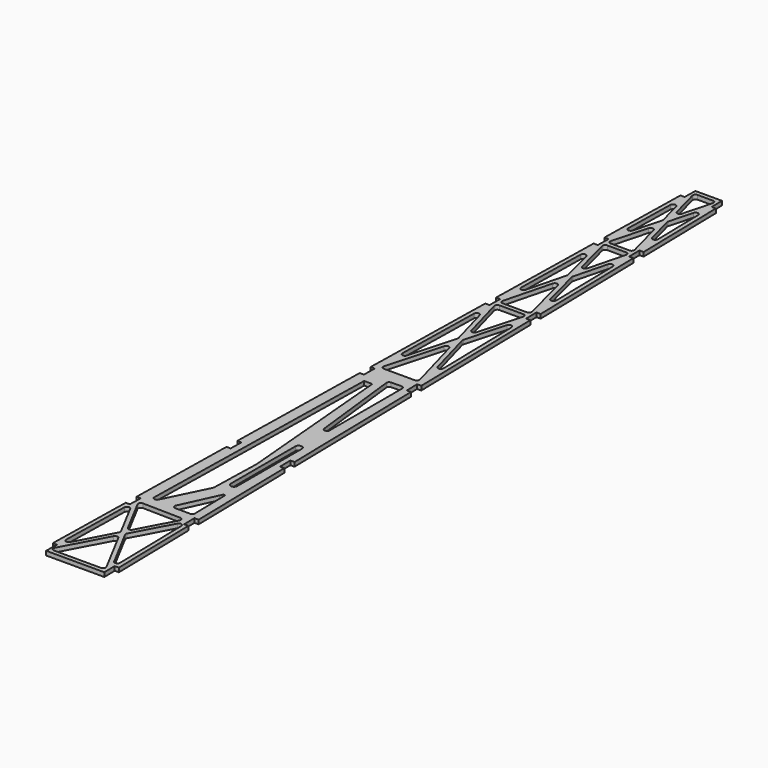
from build123d import *

# Parameters (mm, degrees)
F1_DEPTH = 3.175


with BuildPart() as f1:
    # F0 (on Top) → F1 (new body)
    with BuildSketch(Plane.XY):
        Polygon((6.444097, 283.508122), (-3.590998, 283.508122), (-13.626092, 283.508122), (-13.824096, 273.447582), (-16.998481, 273.510058), (-18.438634, 203.352104), (-15.264249, 203.289628), (-15.461023, 193.291564), (-18.635408, 193.35404), (-20.46911, 103.199958), (-17.301305, 103.137612), (-17.498079, 93.139548), (-20.672464, 93.202024), (-22.828078, -12.778931), (-19.660273, -12.841278), (-19.857047, -22.839342), (-23.031432, -22.776866), (-25.284472, -135.921766), (-22.110087, -135.984242), (-22.306861, -145.982305), (-25.481246, -145.91983), (-27.117884, -229.077143), (-23.943499, -229.139618), (-24.140273, -239.137682), (-27.314658, -239.075206), (-28.642359, -306.53547), (-25.467974, -306.597946), (-25.665481, -316.63324), (-4.710101, -316.63324), (18.483485, -316.63324), (18.285978, -306.597946), (21.460364, -306.53547), (20.132663, -239.075206), (16.958278, -239.137682), (16.761503, -229.139618), (19.935889, -229.077143), (18.299251, -145.91983), (15.124865, -145.982305), (14.928091, -135.984242), (18.102477, -135.921766), (15.849437, -22.776866), (12.675052, -22.839342), (12.478277, -12.841278), (15.646082, -12.778931), (13.490468, 93.202024), (10.316083, 93.139548), (10.119309, 103.137612), (13.287114, 103.199958), (11.453413, 193.35404), (8.279028, 193.291564), (8.082254, 203.289628), (11.256639, 203.352104), (9.816486, 273.510058), (6.642101, 273.447582), align=None)
        with BuildLine():
            Line((-25.301506, -298.139761), (-24.241335, -244.272637))
            ThreePointArc((-24.241335, -244.272637), (-22.70611, -242.366653), (-20.4755, -243.373664))
            Line((-20.4755, -243.373664), (-6.643158, -269.410404))
            ThreePointArc((-6.643158, -269.410404), (-6.409382, -270.351733), (-6.645982, -271.292356))
            Line((-6.645982, -271.292356), (-21.538495, -299.122741))
            ThreePointArc((-21.538495, -299.122741), (-23.807375, -300.114184), (-25.301506, -298.139761))
        make_face(mode=Mode.SUBTRACT)
        with BuildLine():
            Line((13.430559, -313.45824), (-22.264411, -313.45824))
            ThreePointArc((-22.264411, -313.45824), (-23.98011, -312.486041), (-24.027809, -310.514615))
            Line((-24.027809, -310.514615), (-6.115812, -277.04157))
            ThreePointArc((-6.115812, -277.04157), (-4.349412, -275.985197), (-2.586191, -277.046867))
            Line((-2.586191, -277.046867), (15.196782, -310.519912))
            ThreePointArc((15.196782, -310.519912), (15.144714, -312.488614), (13.430559, -313.45824))
        make_face(mode=Mode.SUBTRACT)
        with BuildLine():
            Line((-18.803989, -233.405354), (10.025356, -233.972751))
            ThreePointArc((10.025356, -233.972751), (11.71173, -234.961494), (11.749399, -236.915988))
            Line((11.749399, -236.915988), (-2.566114, -263.668103))
            ThreePointArc((-2.566114, -263.668103), (-4.332514, -264.724477), (-6.095735, -263.662806))
            Line((-6.095735, -263.662806), (-20.609566, -236.343295))
            ThreePointArc((-20.609566, -236.343295), (-20.547278, -234.357776), (-18.803989, -233.405354))
        make_face(mode=Mode.SUBTRACT)
        with BuildLine():
            Line((1.240514, -191.580951), (-14.695907, -223.962616))
            ThreePointArc((-14.695907, -223.962616), (-16.970181, -225.021077), (-18.489626, -223.025095))
            Line((-18.489626, -223.025095), (-14.633761, -29.013587))
            Line((-14.633761, -29.013587), (-8.414293, -29.18279))
            Line((-8.414293, -29.18279), (2.31197, -152.197001))
            Line((2.31197, -152.197001), (1.240514, -191.580951))
        make_face(mode=Mode.SUBTRACT)
        with BuildLine():
            Line((17.009734, -241.762103), (18.181389, -301.293701))
            ThreePointArc((18.181389, -301.293701), (16.684353, -303.26888), (14.415554, -302.271384))
            Line((14.415554, -302.271384), (-2.038768, -271.29927))
            ThreePointArc((-2.038768, -271.29927), (-2.272544, -270.357941), (-2.035944, -269.417318))
            Line((-2.035944, -269.417318), (13.246723, -240.857834))
            ThreePointArc((13.246723, -240.857834), (15.477427, -239.856818), (17.009734, -241.762103))
        make_face(mode=Mode.SUBTRACT)
        with BuildLine():
            Line((-1.879553, -223.475835), (10.222261, -197.098457))
            Line((10.222261, -197.098457), (11.159908, -195.182439))
            ThreePointArc((11.159908, -195.182439), (12.07296, -194.742526), (12.715259, -195.526517))
            Line((12.715259, -195.526517), (13.280975, -224.270484))
            ThreePointArc((13.280975, -224.270484), (12.709422, -225.710069), (11.281363, -226.309839))
            Line((11.281363, -226.309839), (-0.061741, -226.309839))
            ThreePointArc((-0.061741, -226.309839), (-1.745191, -225.389652), (-1.879553, -223.475835))
        make_face(mode=Mode.SUBTRACT)
        with BuildLine():
            Line((5.933236, -181.199968), (5.933236, -120.013282))
            ThreePointArc((5.933236, -120.013282), (8.433236, -117.513282), (10.933236, -120.013282))
            Line((10.933236, -120.013282), (10.933236, -181.199968))
            ThreePointArc((10.933236, -181.199968), (8.433236, -183.699968), (5.933236, -181.199968))
        make_face(mode=Mode.SUBTRACT)
        with BuildLine():
            Line((-0.884981, -20.674951), (6.986219, -20.514853))
            ThreePointArc((6.986219, -20.514853), (8.42665, -21.085919), (9.02689, -22.51444))
            Line((9.02689, -22.51444), (9.02689, -91.315092))
            ThreePointArc((9.02689, -91.315092), (7.141002, -93.311834), (5.039912, -91.542944))
            Line((5.039912, -91.542944), (-2.831289, -22.902389))
            ThreePointArc((-2.831289, -22.902389), (-2.350369, -21.358562), (-0.884981, -20.674951))
        make_face(mode=Mode.SUBTRACT)
        with BuildLine():
            Line((-13.859558, 79.433733), (-5.387997, 48.784992))
            ThreePointArc((-5.387997, 48.784992), (-5.315712, 48.252156), (-5.387997, 47.71932))
            Line((-5.387997, 47.71932), (-15.205358, 12.201691))
            ThreePointArc((-15.205358, 12.201691), (-17.42207, 10.755517), (-19.13266, 12.775198))
            Line((-19.13266, 12.775198), (-17.78686, 78.941568))
            ThreePointArc((-17.78686, 78.941568), (-16.035966, 80.885375), (-13.859558, 79.433733))
        make_face(mode=Mode.SUBTRACT)
        with BuildLine():
            ThreePointArc((10.05632, -7.090055), (9.720093, -8.834157), (8.128605, -9.622891))
            Line((8.128605, -9.622891), (-15.310796, -9.622891))
            ThreePointArc((-15.310796, -9.622891), (-16.902284, -8.834157), (-17.238511, -7.090055))
            Line((-17.238511, -7.090055), (-5.518811, 35.309929))
            ThreePointArc((-5.518811, 35.309929), (-3.591095, 36.777093), (-1.66338, 35.309929))
            Line((-1.66338, 35.309929), (10.05632, -7.090055))
        make_face(mode=Mode.SUBTRACT)
        with BuildLine():
            ThreePointArc((5.49617, 96.603479), (7.087659, 95.814744), (7.423885, 94.070643))
            Line((7.423885, 94.070643), (-1.66338, 61.194382))
            ThreePointArc((-1.66338, 61.194382), (-3.591095, 59.727218), (-5.518811, 61.194382))
            Line((-5.518811, 61.194382), (-14.606076, 94.070643))
            ThreePointArc((-14.606076, 94.070643), (-14.26985, 95.814744), (-12.678361, 96.603479))
            Line((-12.678361, 96.603479), (5.49617, 96.603479))
        make_face(mode=Mode.SUBTRACT)
        with BuildLine():
            Line((-1.653651, 138.111739), (7.525016, 102.279772))
            ThreePointArc((7.525016, 102.279772), (7.167537, 100.557222), (5.587571, 99.783479))
            Line((5.587571, 99.783479), (-12.769762, 99.783479))
            ThreePointArc((-12.769762, 99.783479), (-14.349728, 100.557222), (-14.707207, 102.279772))
            Line((-14.707207, 102.279772), (-5.52854, 138.111739))
            ThreePointArc((-5.52854, 138.111739), (-3.591095, 139.615446), (-1.653651, 138.111739))
        make_face(mode=Mode.SUBTRACT)
        with BuildLine():
            Line((-5.359562, 151.586407), (-12.965248, 121.895093))
            ThreePointArc((-12.965248, 121.895093), (-15.172967, 120.409732), (-16.902279, 122.432057))
            Line((-16.902279, 122.432057), (-15.783307, 177.446408))
            ThreePointArc((-15.783307, 177.446408), (-14.013641, 179.392477), (-11.846276, 177.90203))
            Line((-11.846276, 177.90203), (-5.359562, 152.578994))
            ThreePointArc((-5.359562, 152.578994), (-5.297007, 152.0827), (-5.359562, 151.586407))
        make_face(mode=Mode.SUBTRACT)
        with BuildLine():
            ThreePointArc((-1.653651, 166.053662), (-3.591095, 164.549955), (-5.52854, 166.053662))
            Line((-5.52854, 166.053662), (-12.676292, 193.957281))
            ThreePointArc((-12.676292, 193.957281), (-12.318814, 195.679831), (-10.738847, 196.453574))
            Line((-10.738847, 196.453574), (3.556656, 196.453574))
            ThreePointArc((3.556656, 196.453574), (5.136623, 195.679831), (5.494101, 193.957281))
            Line((5.494101, 193.957281), (-1.653651, 166.053662))
        make_face(mode=Mode.SUBTRACT)
        with BuildLine():
            Line((-14.889978, 221.367023), (-14.096041, 260.400995))
            ThreePointArc((-14.096041, 260.400995), (-12.335342, 262.346006), (-10.16357, 260.874091))
            Line((-10.16357, 260.874091), (-5.372865, 242.850573))
            ThreePointArc((-5.372865, 242.850573), (-5.30575, 242.336807), (-5.372865, 241.82304))
            Line((-5.372865, 241.82304), (-10.957507, 220.812586))
            ThreePointArc((-10.957507, 220.812586), (-13.169609, 219.345939), (-14.889978, 221.367023))
        make_face(mode=Mode.SUBTRACT)
        with BuildLine():
            Line((-1.658211, 228.875354), (5.446175, 202.14734))
            ThreePointArc((5.446175, 202.14734), (5.098776, 200.414462), (3.51329, 199.633574))
            Line((3.51329, 199.633574), (-10.695481, 199.633574))
            ThreePointArc((-10.695481, 199.633574), (-12.280967, 200.414462), (-12.628366, 202.14734))
            Line((-12.628366, 202.14734), (-5.52398, 228.875354))
            ThreePointArc((-5.52398, 228.875354), (-3.591095, 230.361588), (-1.658211, 228.875354))
        make_face(mode=Mode.SUBTRACT)
        with BuildLine():
            Line((-9.444368, 280.333122), (2.262177, 280.333122))
            ThreePointArc((2.262177, 280.333122), (3.847663, 279.552234), (4.195062, 277.819355))
            Line((4.195062, 277.819355), (-1.658211, 255.798259))
            ThreePointArc((-1.658211, 255.798259), (-3.591095, 254.312026), (-5.52398, 255.798259))
            Line((-5.52398, 255.798259), (-11.377253, 277.819355))
            ThreePointArc((-11.377253, 277.819355), (-11.029854, 279.552234), (-9.444368, 280.333122))
        make_face(mode=Mode.SUBTRACT)
        with BuildLine():
            Line((10.604669, 78.941568), (11.950469, 12.775198))
            ThreePointArc((11.950469, 12.775198), (10.239879, 10.755517), (8.023167, 12.201691))
            Line((8.023167, 12.201691), (-1.794194, 47.71932))
            ThreePointArc((-1.794194, 47.71932), (-1.866479, 48.252156), (-1.794194, 48.784992))
            Line((-1.794194, 48.784992), (6.677367, 79.433733))
            ThreePointArc((6.677367, 79.433733), (8.853775, 80.885375), (10.604669, 78.941568))
        make_face(mode=Mode.SUBTRACT)
        with BuildLine():
            ThreePointArc((9.720088, 122.432057), (7.990776, 120.409732), (5.783057, 121.895093))
            Line((5.783057, 121.895093), (-1.822629, 151.586407))
            ThreePointArc((-1.822629, 151.586407), (-1.885184, 152.0827), (-1.822629, 152.578994))
            Line((-1.822629, 152.578994), (4.664085, 177.90203))
            ThreePointArc((4.664085, 177.90203), (6.83145, 179.392477), (8.601116, 177.446408))
            Line((8.601116, 177.446408), (9.720088, 122.432057))
        make_face(mode=Mode.SUBTRACT)
        with BuildLine():
            ThreePointArc((7.707787, 221.367023), (5.987418, 219.345939), (3.775316, 220.812586))
            Line((3.775316, 220.812586), (-1.809326, 241.82304))
            ThreePointArc((-1.809326, 241.82304), (-1.876441, 242.336807), (-1.809326, 242.850573))
            Line((-1.809326, 242.850573), (2.981379, 260.874091))
            ThreePointArc((2.981379, 260.874091), (5.153151, 262.346006), (6.91385, 260.400995))
            Line((6.91385, 260.400995), (7.707787, 221.367023))
        make_face(mode=Mode.SUBTRACT)
    extrude(amount=F1_DEPTH)


solid = f1.part
